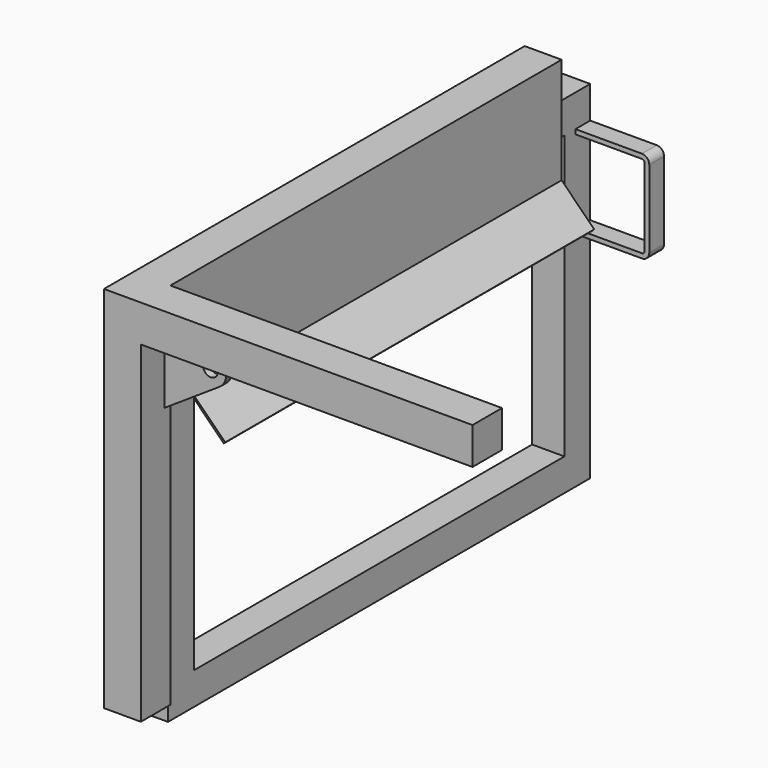
from build123d import *

# Parameters (mm, degrees)
F1_DEPTH  = 40
F2_W      = 40
F2_H      = 40
F3_DEPTH  = 530
F4_R      = 8
F5_DEPTH  = 8
F6_W      = 3
F6_H      = 500
F7_DEPTH  = 75
F9_DEPTH  = 500
F10_W     = 572
F10_H     = 376.232696
F10_W_2   = 502
F10_H_2   = 306.232696
F11_DEPTH = 35
F13_DEPTH = 20


with BuildPart() as f1:
    # F0 (on Front) → F1 (new body)
    with BuildSketch(Plane.XZ):
        Polygon((0, 0), (0, -400), (40, -400), (40, -40), (399.429325, -40), (399.429325, 0), align=None)
    extrude(amount=F1_DEPTH)

    # F2 (on face) → F3 (join)
    with BuildSketch(Plane(origin=(0, 0, 0), x_dir=(-1, 0, 0), z_dir=(0, 1, 0))):
        with Locations((-20, -20)):
            Rectangle(F2_W, F2_H)
    extrude(amount=F3_DEPTH)

    # F4 (on face) → F5 (join)
    with BuildSketch(Plane(origin=(0, 0, 0), x_dir=(-1, 0, 0), z_dir=(0, 1, 0))):
        with BuildLine():
            Line((-98.345199, -40), (-104.86551, -51.752782))
            ThreePointArc((-104.86551, -51.752782), (-106.51335, -64.038474), (-99.381481, -74.177017))
            Line((-99.381481, -74.177017), (-40, -113.472042))
            Line((-40, -113.472042), (-40, -40))
            Line((-40, -40), (-98.345199, -40))
        make_face()
        with Locations((-90, -60)):
            Circle(F4_R, mode=Mode.SUBTRACT)
    extrude(amount=-F5_DEPTH)

    # F6 (on face) → F7 (join)
    with BuildSketch(Plane(origin=(0, 0, -40), x_dir=(1, 0, 0), z_dir=(0, 0, -1))):
        with Locations((38.5, -280)):
            Rectangle(F6_W, F6_H)
    extrude(amount=F7_DEPTH)

    # F8 (on face) → F9 (join, through all)
    with BuildSketch(Plane(origin=(0, 530, 0), x_dir=(-1, 0, 0), z_dir=(0, 1, 0))):
        Polygon((-37, -115), (-40, -115), (-75.355339, -150.355339), (-73.881064, -151.881064), align=None)
    extrude(amount=-F9_DEPTH)


with BuildPart() as f11:
    # F10 (on face) → F11 (new body)
    with BuildSketch(Plane(origin=(0, 0, 0), x_dir=(0, -1, 0), z_dir=(-1, 0, 0))):
        with Locations((-289, -231.116348)):
            Rectangle(F10_W, F10_H)
        with Locations((-289, -231.116348)):
            Rectangle(F10_W_2, F10_H_2, mode=Mode.SUBTRACT)
    extrude(amount=-F11_DEPTH)

    # F12 (on face) → F13 (join)
    with BuildSketch(Plane(origin=(0, 575, 0), x_dir=(-1, 0, 0), z_dir=(0, 1, 0))):
        with BuildLine():
            Line((-35, -83), (-35, -78))
            Line((-35, -78), (-107, -78))
            ThreePointArc((-107, -78), (-112.656854, -80.343146), (-115, -86))
            Line((-115, -86), (-115, -170))
            ThreePointArc((-115, -170), (-112.656854, -175.656854), (-107, -178))
            Line((-107, -178), (-35, -178))
            Line((-35, -178), (-35, -173))
            Line((-35, -173), (-107, -173))
            ThreePointArc((-107, -173), (-109.12132, -172.12132), (-110, -170))
            Line((-110, -170), (-110, -86))
            ThreePointArc((-110, -86), (-109.12132, -83.87868), (-107, -83))
            Line((-107, -83), (-35, -83))
        make_face()
    extrude(amount=-F13_DEPTH)


solid = Compound([f1.part, f11.part])
